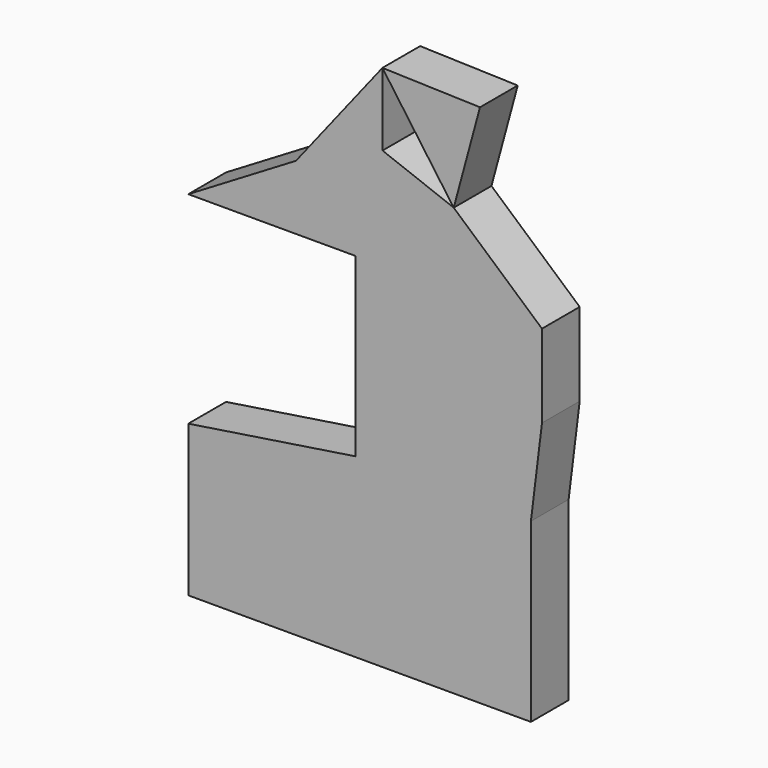
from build123d import *

# Parameters (mm, degrees)
F0_W     = 94.592042
F0_H     = 95.190734
F1_DEPTH = 25.4


with BuildPart() as f1:
    # F0 (on Front) → F1 (new body)
    with BuildSketch(Plane.XZ):
        Polygon((0, -95.190734), (0, 0), (-89.952238, -13.769746), (-89.952238, -95.190734), align=None)
        Polygon((-89.952238, 95.041037), (0, 95.041037), (53.13319, 95.041037), (81.856087, 93.224607), (100.547239, 93.224607), (53.009719, 135.118842), (14.656931, 149.74311), (14.606133, 188.940585), (-31.960346, 129.71817), align=None)
        Polygon((14.606133, 188.940585), (53.009719, 135.118842), (67.170173, 187.347919), align=None)
        with Locations((47.296021, -47.595367)):
            Rectangle(F0_W, F0_H)
        Polygon((0, 95.041037), (0, 0), (94.592042, 0), (100.547239, 48.499346), (100.547239, 93.224607), (81.856087, 93.224607), (53.13319, 95.041037), align=None)
    extrude(amount=F1_DEPTH)


solid = f1.part
